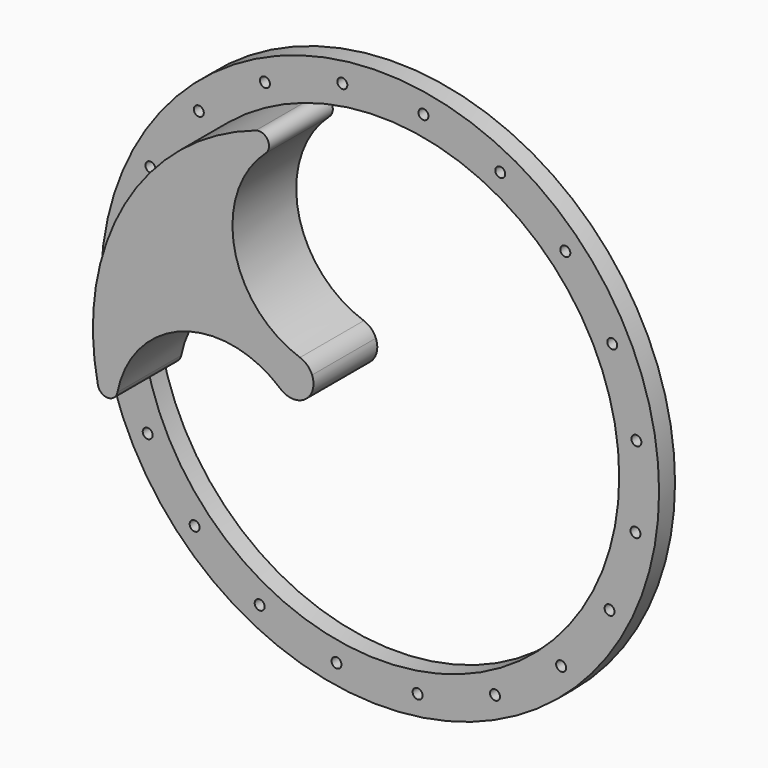
from build123d import *

# Parameters (mm, degrees)
F0_R     = 88.9
F0_R_2   = 1.5875
F1_DEPTH = 6.35
F2_DEPTH = 25.4


with BuildPart() as f1:
    # F0 (on Front) → F1 (new body)
    with BuildSketch(Plane.XZ):
        with BuildLine():
            ThreePointArc((-21.163168, 66.848182), (-20.535293, 70.811884), (-24.291636, 72.224348))
            ThreePointArc((-24.291636, 72.224348), (-66.115053, 37.884558), (-74.594011, -15.561926))
            ThreePointArc((-74.594011, -15.561926), (-71.46933, -18.088469), (-68.371234, -15.529397))
            ThreePointArc((-68.371234, -15.529397), (-47.541779, 8.338621), (-16.441051, 2.314237))
            ThreePointArc((-16.441051, 2.314237), (-14.081698, 1.024394), (-11.400071, 0.826612))
            ThreePointArc((-11.400071, 0.826612), (-6.789469, 3.932244), (-6.390105, 9.476891))
            ThreePointArc((-6.390105, 9.476891), (-7.914512, 11.721964), (-10.237, 13.12561))
            ThreePointArc((-10.237, 13.12561), (-31.113041, 36.852188), (-21.163168, 66.848182))
        make_face()
        Circle(F0_R)
        with Locations((-59.033186, -57.70256)):
            Circle(F0_R_2, mode=Mode.SUBTRACT)
        with Locations((-38.312825, -73.120653)):
            Circle(F0_R_2, mode=Mode.SUBTRACT)
        with Locations((-13.842137, -81.381188)):
            Circle(F0_R_2, mode=Mode.SUBTRACT)
        with Locations((-73.974968, -36.636138)):
            Circle(F0_R_2, mode=Mode.SUBTRACT)
        with Locations((-81.675565, -11.983515)):
            Circle(F0_R_2, mode=Mode.SUBTRACT)
        with Locations((11.983515, -81.675565)):
            Circle(F0_R_2, mode=Mode.SUBTRACT)
        with Locations((36.636138, -73.974968)):
            Circle(F0_R_2, mode=Mode.SUBTRACT)
        with Locations((57.70256, -59.033186)):
            Circle(F0_R_2, mode=Mode.SUBTRACT)
        with Locations((73.120653, -38.312825)):
            Circle(F0_R_2, mode=Mode.SUBTRACT)
        with Locations((81.381188, -13.842137)):
            Circle(F0_R_2, mode=Mode.SUBTRACT)
        with Locations((-81.381188, 13.842137)):
            Circle(F0_R_2, mode=Mode.SUBTRACT)
        with Locations((-73.120653, 38.312825)):
            Circle(F0_R_2, mode=Mode.SUBTRACT)
        with Locations((-57.70256, 59.033186)):
            Circle(F0_R_2, mode=Mode.SUBTRACT)
        with Locations((-36.636138, 73.974968)):
            Circle(F0_R_2, mode=Mode.SUBTRACT)
        with Locations((-11.983515, 81.675565)):
            Circle(F0_R_2, mode=Mode.SUBTRACT)
        with BuildLine():
            ThreePointArc((-24.291636, 72.224348), (44.471437, 61.876743), (76.2, 0))
            ThreePointArc((76.2, 0), (7.822288, -75.797439), (-74.594011, -15.561926))
            ThreePointArc((-74.594011, -15.561926), (-66.115053, 37.884558), (-24.291636, 72.224348))
        make_face(mode=Mode.SUBTRACT)
        with Locations((81.675565, 11.983515)):
            Circle(F0_R_2, mode=Mode.SUBTRACT)
        with Locations((73.974968, 36.636138)):
            Circle(F0_R_2, mode=Mode.SUBTRACT)
        with Locations((13.842137, 81.381188)):
            Circle(F0_R_2, mode=Mode.SUBTRACT)
        with Locations((38.312825, 73.120653)):
            Circle(F0_R_2, mode=Mode.SUBTRACT)
        with Locations((59.033186, 57.70256)):
            Circle(F0_R_2, mode=Mode.SUBTRACT)
    extrude(amount=F1_DEPTH)

    # F0 (on Front) → F2 (join)
    with BuildSketch(Plane.XZ):
        with BuildLine():
            ThreePointArc((-21.163168, 66.848182), (-20.535293, 70.811884), (-24.291636, 72.224348))
            ThreePointArc((-24.291636, 72.224348), (-66.115053, 37.884558), (-74.594011, -15.561926))
            ThreePointArc((-74.594011, -15.561926), (-71.46933, -18.088469), (-68.371234, -15.529397))
            ThreePointArc((-68.371234, -15.529397), (-47.541779, 8.338621), (-16.441051, 2.314237))
            ThreePointArc((-16.441051, 2.314237), (-14.081698, 1.024394), (-11.400071, 0.826612))
            ThreePointArc((-11.400071, 0.826612), (-6.789469, 3.932244), (-6.390105, 9.476891))
            ThreePointArc((-6.390105, 9.476891), (-7.914512, 11.721964), (-10.237, 13.12561))
            ThreePointArc((-10.237, 13.12561), (-31.113041, 36.852188), (-21.163168, 66.848182))
        make_face()
    extrude(amount=F2_DEPTH)


solid = f1.part
